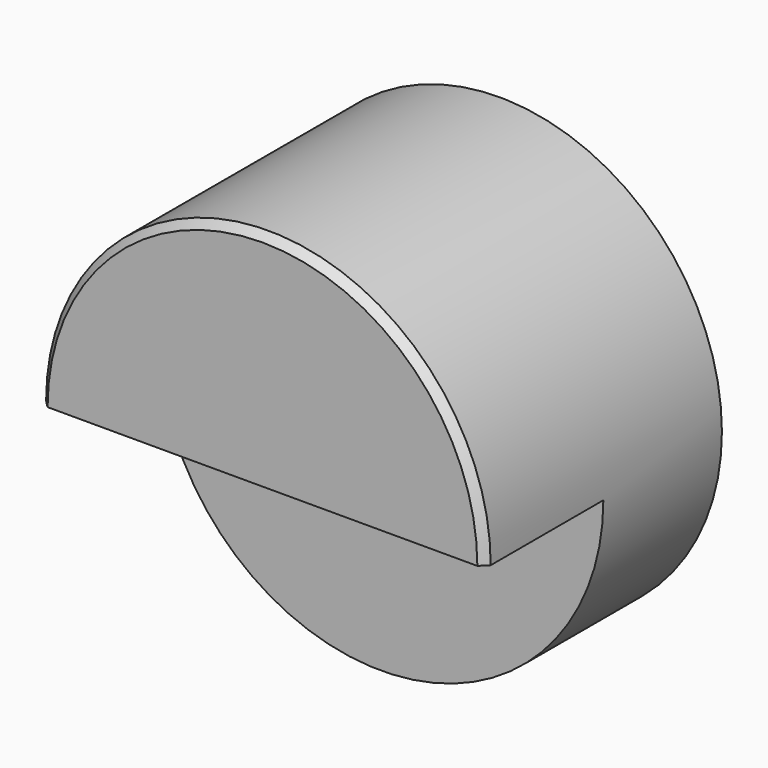
from build123d import *

# Parameters (mm, degrees)
F0_R     = 19.05
F1_DEPTH = 34.925
F2_R     = 19.05
F2_R_2   = 6.35
F3_DEPTH = 9.525
F4_SIZE  = 0.635
F6_DEPTH = 12.7


with BuildPart() as f1:
    # F0 (on Front) → F1 (new body)
    with BuildSketch(Plane.XZ):
        Circle(F0_R)
    extrude(amount=F1_DEPTH)

    # F2 (on face) → F3 (cut)
    with BuildSketch(Plane(origin=(0, 0, 0), x_dir=(-1, 0, 0), z_dir=(0, 1, 0))):
        Circle(F2_R)
        Circle(F2_R_2, mode=Mode.SUBTRACT)
    extrude(amount=-F3_DEPTH, mode=Mode.SUBTRACT)

    # F4
    f4_edges = [f1.edges().sort_by_distance(p)[0] for p in [
        (6.35, 0, 0),
        (-19.05, -34.925, 0),
    ]]
    chamfer(f4_edges, length=F4_SIZE)

    # F5 (on face) → F6 (cut)
    with BuildSketch(Plane.XZ.offset(34.925)):
        with BuildLine():
            Line((-25.4, 0), (-25.4, -25.4))
            Line((-25.4, -25.4), (25.4, -25.4))
            Line((25.4, -25.4), (25.4, 0))
            Line((25.4, 0), (18.415, 0))
            ThreePointArc((18.415, 0), (0, -18.415), (-18.415, 0))
            Line((-18.415, 0), (-25.4, 0))
        make_face()
        with BuildLine():
            Line((18.415, 0), (-18.415, 0))
            ThreePointArc((-18.415, 0), (0, -18.415), (18.415, 0))
        make_face()
    extrude(amount=-F6_DEPTH, mode=Mode.SUBTRACT)


solid = f1.part
